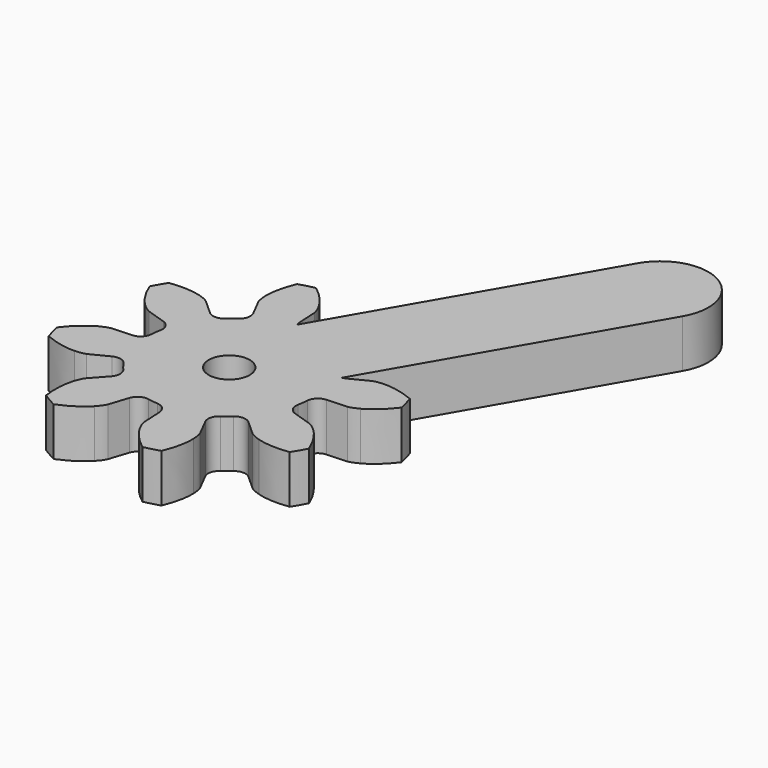
from build123d import *

# Parameters (mm, degrees)
CYLINDER006_R          = 1.7
CYLINDER006_DEPTH      = 10
EXTRUDE011_DEPTH       = 4
EXTRUDE013_DEPTH       = 4
CUT005_PLACEMENT_ANGLE = 30


with BuildPart() as cylinder006:
    # Cylinder006 → Cylinder006 (new body)
    with BuildSketch(Plane(origin=(21, 0, -4), x_dir=(1, 0, 0), z_dir=(0, 0, 1))):
        Circle(CYLINDER006_R)
    extrude(amount=CYLINDER006_DEPTH)


with BuildPart() as extrude011:
    # InvoluteGear004 → Extrude011 (new body)
    with BuildSketch(Plane.XY):
        with BuildLine():
            Line((7.583619, -1.626335), (9.226112, -1.976129))
            add(Edge.make_bspline(
                [(9.226112, -1.976129), (9.323588, -1.988042), (9.615448, -2.006593), (10.112858, -1.891348)],
                knots=[0, 0, 0, 0, 1, 1, 1, 1], degree=3))
            add(Edge.make_bspline(
                [(10.112858, -1.891348), (10.701098, -1.749257), (11.528547, -1.419904), (12.486309, -0.674071)],
                knots=[0, 0, 0, 0, 1, 1, 1, 1], degree=3))
            ThreePointArc((12.486309, -0.674071), (12.504498, 0), (12.486309, 0.674071))
            add(Edge.make_bspline(
                [(12.486309, 0.674071), (11.528547, 1.419904), (10.701098, 1.749257), (10.112858, 1.891348)],
                knots=[0, 0, 0, 0, 1, 1, 1, 1], degree=3))
            add(Edge.make_bspline(
                [(10.112858, 1.891348), (9.615448, 2.006593), (9.323588, 1.988042), (9.226112, 1.976129)],
                knots=[0, 0, 0, 0, 1, 1, 1, 1], degree=3))
            Line((9.226112, 1.976129), (7.583619, 1.626335))
            ThreePointArc((7.583619, 1.626335), (6.928673, 1.725171), (6.502518, 2.232237))
            ThreePointArc((6.502518, 2.232237), (6.351672, 2.630949), (6.176404, 3.019545))
            ThreePointArc((6.176404, 3.019545), (6.119192, 3.679432), (6.512421, 4.212436))
            Line((6.512421, 4.212436), (7.92118, 5.126512))
            add(Edge.make_bspline(
                [(7.92118, 5.126512), (7.99853, 5.187015), (8.218024, 5.380273), (8.488255, 5.813485)],
                knots=[0, 0, 0, 0, 1, 1, 1, 1], degree=3))
            add(Edge.make_bspline(
                [(8.488255, 5.813485), (8.803731, 6.329908), (9.155937, 7.14789), (9.305795, 8.352514)],
                knots=[0, 0, 0, 0, 1, 1, 1, 1], degree=3))
            ThreePointArc((9.305795, 8.352514), (8.842015, 8.842015), (8.352514, 9.305795))
            add(Edge.make_bspline(
                [(8.352514, 9.305795), (7.14789, 9.155937), (6.329908, 8.803731), (5.813485, 8.488255)],
                knots=[0, 0, 0, 0, 1, 1, 1, 1], degree=3))
            add(Edge.make_bspline(
                [(5.813485, 8.488255), (5.380273, 8.218024), (5.187015, 7.99853), (5.126512, 7.92118)],
                knots=[0, 0, 0, 0, 1, 1, 1, 1], degree=3))
            Line((5.126512, 7.92118), (4.212436, 6.512421))
            ThreePointArc((4.212436, 6.512421), (3.679432, 6.119192), (3.019545, 6.176404))
            ThreePointArc((3.019545, 6.176404), (2.630949, 6.351672), (2.232237, 6.502518))
            ThreePointArc((2.232237, 6.502518), (1.725171, 6.928673), (1.626335, 7.583619))
            Line((1.626335, 7.583619), (1.976129, 9.226112))
            add(Edge.make_bspline(
                [(1.976129, 9.226112), (1.988042, 9.323588), (2.006593, 9.615448), (1.891348, 10.112858)],
                knots=[0, 0, 0, 0, 1, 1, 1, 1], degree=3))
            add(Edge.make_bspline(
                [(1.891348, 10.112858), (1.749257, 10.701098), (1.419904, 11.528547), (0.674071, 12.486309)],
                knots=[0, 0, 0, 0, 1, 1, 1, 1], degree=3))
            ThreePointArc((0.674071, 12.486309), (0, 12.504498), (-0.674071, 12.486309))
            add(Edge.make_bspline(
                [(-0.674071, 12.486309), (-1.419904, 11.528547), (-1.749257, 10.701098), (-1.891348, 10.112858)],
                knots=[0, 0, 0, 0, 1, 1, 1, 1], degree=3))
            add(Edge.make_bspline(
                [(-1.891348, 10.112858), (-2.006593, 9.615448), (-1.988042, 9.323588), (-1.976129, 9.226112)],
                knots=[0, 0, 0, 0, 1, 1, 1, 1], degree=3))
            Line((-1.976129, 9.226112), (-1.626335, 7.583619))
            ThreePointArc((-1.626335, 7.583619), (-1.725171, 6.928673), (-2.232237, 6.502518))
            ThreePointArc((-2.232237, 6.502518), (-2.630949, 6.351672), (-3.019545, 6.176404))
            ThreePointArc((-3.019545, 6.176404), (-3.679432, 6.119192), (-4.212436, 6.512421))
            Line((-4.212436, 6.512421), (-5.126512, 7.92118))
            add(Edge.make_bspline(
                [(-5.126512, 7.92118), (-5.187015, 7.99853), (-5.380273, 8.218024), (-5.813485, 8.488255)],
                knots=[0, 0, 0, 0, 1, 1, 1, 1], degree=3))
            add(Edge.make_bspline(
                [(-5.813485, 8.488255), (-6.329908, 8.803731), (-7.14789, 9.155937), (-8.352514, 9.305795)],
                knots=[0, 0, 0, 0, 1, 1, 1, 1], degree=3))
            ThreePointArc((-8.352514, 9.305795), (-8.842015, 8.842015), (-9.305795, 8.352514))
            add(Edge.make_bspline(
                [(-9.305795, 8.352514), (-9.155937, 7.14789), (-8.803731, 6.329908), (-8.488255, 5.813485)],
                knots=[0, 0, 0, 0, 1, 1, 1, 1], degree=3))
            add(Edge.make_bspline(
                [(-8.488255, 5.813485), (-8.218024, 5.380273), (-7.99853, 5.187015), (-7.92118, 5.126512)],
                knots=[0, 0, 0, 0, 1, 1, 1, 1], degree=3))
            Line((-7.92118, 5.126512), (-6.512421, 4.212436))
            ThreePointArc((-6.512421, 4.212436), (-6.119192, 3.679432), (-6.176404, 3.019545))
            ThreePointArc((-6.176404, 3.019545), (-6.351672, 2.630949), (-6.502518, 2.232237))
            ThreePointArc((-6.502518, 2.232237), (-6.928673, 1.725171), (-7.583619, 1.626335))
            Line((-7.583619, 1.626335), (-9.226112, 1.976129))
            add(Edge.make_bspline(
                [(-9.226112, 1.976129), (-9.323588, 1.988042), (-9.615448, 2.006593), (-10.112858, 1.891348)],
                knots=[0, 0, 0, 0, 1, 1, 1, 1], degree=3))
            add(Edge.make_bspline(
                [(-10.112858, 1.891348), (-10.701098, 1.749257), (-11.528547, 1.419904), (-12.486309, 0.674071)],
                knots=[0, 0, 0, 0, 1, 1, 1, 1], degree=3))
            ThreePointArc((-12.486309, 0.674071), (-12.504498, 0), (-12.486309, -0.674071))
            add(Edge.make_bspline(
                [(-12.486309, -0.674071), (-11.528547, -1.419904), (-10.701098, -1.749257), (-10.112858, -1.891348)],
                knots=[0, 0, 0, 0, 1, 1, 1, 1], degree=3))
            add(Edge.make_bspline(
                [(-10.112858, -1.891348), (-9.615448, -2.006593), (-9.323588, -1.988042), (-9.226112, -1.976129)],
                knots=[0, 0, 0, 0, 1, 1, 1, 1], degree=3))
            Line((-9.226112, -1.976129), (-7.583619, -1.626335))
            ThreePointArc((-7.583619, -1.626335), (-6.928673, -1.725171), (-6.502518, -2.232237))
            ThreePointArc((-6.502518, -2.232237), (-6.351672, -2.630949), (-6.176404, -3.019545))
            ThreePointArc((-6.176404, -3.019545), (-6.119192, -3.679432), (-6.512421, -4.212436))
            Line((-6.512421, -4.212436), (-7.92118, -5.126512))
            add(Edge.make_bspline(
                [(-7.92118, -5.126512), (-7.99853, -5.187015), (-8.218024, -5.380273), (-8.488255, -5.813485)],
                knots=[0, 0, 0, 0, 1, 1, 1, 1], degree=3))
            add(Edge.make_bspline(
                [(-8.488255, -5.813485), (-8.803731, -6.329908), (-9.155937, -7.14789), (-9.305795, -8.352514)],
                knots=[0, 0, 0, 0, 1, 1, 1, 1], degree=3))
            ThreePointArc((-9.305795, -8.352514), (-8.842015, -8.842015), (-8.352514, -9.305795))
            add(Edge.make_bspline(
                [(-8.352514, -9.305795), (-7.14789, -9.155937), (-6.329908, -8.803731), (-5.813485, -8.488255)],
                knots=[0, 0, 0, 0, 1, 1, 1, 1], degree=3))
            add(Edge.make_bspline(
                [(-5.813485, -8.488255), (-5.380273, -8.218024), (-5.187015, -7.99853), (-5.126512, -7.92118)],
                knots=[0, 0, 0, 0, 1, 1, 1, 1], degree=3))
            Line((-5.126512, -7.92118), (-4.212436, -6.512421))
            ThreePointArc((-4.212436, -6.512421), (-3.679432, -6.119192), (-3.019545, -6.176404))
            ThreePointArc((-3.019545, -6.176404), (-2.630949, -6.351672), (-2.232237, -6.502518))
            ThreePointArc((-2.232237, -6.502518), (-1.725171, -6.928673), (-1.626335, -7.583619))
            Line((-1.626335, -7.583619), (-1.976129, -9.226112))
            add(Edge.make_bspline(
                [(-1.976129, -9.226112), (-1.988042, -9.323588), (-2.006593, -9.615448), (-1.891348, -10.112858)],
                knots=[0, 0, 0, 0, 1, 1, 1, 1], degree=3))
            add(Edge.make_bspline(
                [(-1.891348, -10.112858), (-1.749257, -10.701098), (-1.419904, -11.528547), (-0.674071, -12.486309)],
                knots=[0, 0, 0, 0, 1, 1, 1, 1], degree=3))
            ThreePointArc((-0.674071, -12.486309), (0, -12.504498), (0.674071, -12.486309))
            add(Edge.make_bspline(
                [(0.674071, -12.486309), (1.419904, -11.528547), (1.749257, -10.701098), (1.891348, -10.112858)],
                knots=[0, 0, 0, 0, 1, 1, 1, 1], degree=3))
            add(Edge.make_bspline(
                [(1.891348, -10.112858), (2.006593, -9.615448), (1.988042, -9.323588), (1.976129, -9.226112)],
                knots=[0, 0, 0, 0, 1, 1, 1, 1], degree=3))
            Line((1.976129, -9.226112), (1.626335, -7.583619))
            ThreePointArc((1.626335, -7.583619), (1.725171, -6.928673), (2.232237, -6.502518))
            ThreePointArc((2.232237, -6.502518), (2.630949, -6.351672), (3.019545, -6.176404))
            ThreePointArc((3.019545, -6.176404), (3.679432, -6.119192), (4.212436, -6.512421))
            Line((4.212436, -6.512421), (5.126512, -7.92118))
            add(Edge.make_bspline(
                [(5.126512, -7.92118), (5.187015, -7.99853), (5.380273, -8.218024), (5.813485, -8.488255)],
                knots=[0, 0, 0, 0, 1, 1, 1, 1], degree=3))
            add(Edge.make_bspline(
                [(5.813485, -8.488255), (6.329908, -8.803731), (7.14789, -9.155937), (8.352514, -9.305795)],
                knots=[0, 0, 0, 0, 1, 1, 1, 1], degree=3))
            ThreePointArc((8.352514, -9.305795), (8.842015, -8.842015), (9.305795, -8.352514))
            add(Edge.make_bspline(
                [(9.305795, -8.352514), (9.155937, -7.14789), (8.803731, -6.329908), (8.488255, -5.813485)],
                knots=[0, 0, 0, 0, 1, 1, 1, 1], degree=3))
            add(Edge.make_bspline(
                [(8.488255, -5.813485), (8.218024, -5.380273), (7.99853, -5.187015), (7.92118, -5.126512)],
                knots=[0, 0, 0, 0, 1, 1, 1, 1], degree=3))
            Line((7.92118, -5.126512), (6.512421, -4.212436))
            ThreePointArc((6.512421, -4.212436), (6.119192, -3.679432), (6.176404, -3.019545))
            ThreePointArc((6.176404, -3.019545), (6.351672, -2.630949), (6.502518, -2.232237))
            ThreePointArc((6.502518, -2.232237), (6.928673, -1.725171), (7.583619, -1.626335))
        make_face()
    extrude(amount=EXTRUDE011_DEPTH)


with BuildPart() as extrude011_1:
    # Extrude011 placement: moved
    add(extrude011.part.moved(Location((21, 0, 0))))


with BuildPart() as cut005:
    # Sketch006 → Extrude013 (new body)
    with BuildSketch(Plane.XY):
        with BuildLine():
            ThreePointArc((-4, 0), (0, -4), (4, 0))
            Line((4, 0), (4, 30))
            ThreePointArc((4, 30), (0, 34), (-4, 30))
            Line((-4, 0), (-4, 30))
        make_face()
    extrude(amount=EXTRUDE013_DEPTH)


with BuildPart() as cut005_1:
    # Extrude013 placement: moved
    add(cut005.part.moved(Location((21, 0, 0))))

    # Fusion003: union Extrude011
    add(extrude011_1.part)

    # Cut005: cut Cylinder006
    add(cylinder006.part, mode=Mode.SUBTRACT)


with BuildPart() as cut005_2:
    # Cut005 placement: moved
    add(cut005_1.part.moved(Location((2.813467, 10.5, 0))).rotate(Axis((2.813467, 10.5, 0), (0, 0, -1)), CUT005_PLACEMENT_ANGLE))


solid = cut005_2.part
